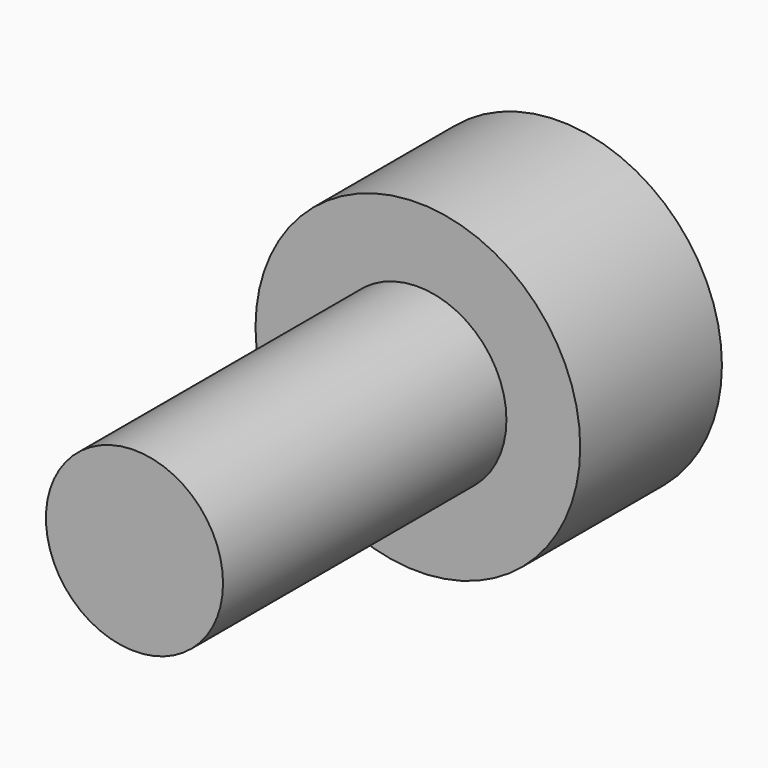
from build123d import *

# Parameters (mm, degrees)
SKETCH045_R             = 2.75
PAD023_DEPTH            = 3
SKETCH046_R             = 1.5
PAD024_DEPTH            = 6
POCKET019_DEPTH         = 4
BODY014_PLACEMENT_ANGLE = 90


with BuildPart() as part:
    # Sketch045 → Pad023 (new body)
    with BuildSketch(Plane.XY):
        Circle(SKETCH045_R)
    extrude(amount=PAD023_DEPTH)

    # Sketch046 (on Face2 of Pad023) → Pad024 (join)
    with BuildSketch(Plane(origin=(0, 0, 0), x_dir=(1, 0, 0), z_dir=(0, 0, -1))):
        Circle(SKETCH046_R)
    extrude(amount=PAD024_DEPTH)

    # Sketch047 (on DatumPlane) → Pocket019 (cut)
    with BuildSketch(Plane.XY.offset(3)):
        Polygon((0.721688, -1.25), (1.443376, 0), (0.721688, 1.25), (-0.721688, 1.25), (-1.443376, 0), (-0.721688, -1.25), align=None)
    extrude(amount=-POCKET019_DEPTH, mode=Mode.SUBTRACT)


with BuildPart() as part_1:
    # Body014 placement: moved
    add(part.part.moved(Location((6.5, 1.35, -19.25))).rotate(Axis((6.5, 1.35, -19.25), (-1, 0, 0)), BODY014_PLACEMENT_ANGLE))


solid = part_1.part
